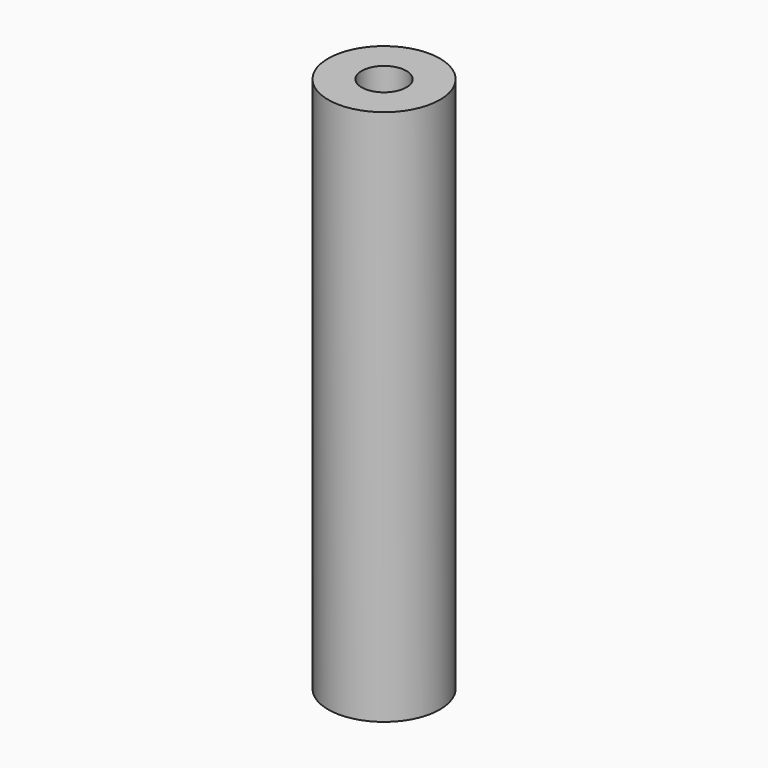
from build123d import *

# Parameters (mm, degrees)
F0_R     = 12.5
F0_R_2   = 5
F1_DEPTH = 60
F2_DEPTH = 25


with BuildPart() as f1:
    # F0 (on Top) → F1 (new body)
    with BuildSketch(Plane.XY):
        Circle(F0_R)
        Circle(F0_R_2, mode=Mode.SUBTRACT)
        Circle(F0_R_2)
    extrude(amount=-F1_DEPTH)

    # F0 (on Top) → F2 (cut)
    with BuildSketch(Plane.XY):
        Circle(F0_R_2)
    extrude(amount=-F2_DEPTH, mode=Mode.SUBTRACT)

    # F3: F1 across face


with BuildPart() as f1_1:
    add(f1.part)
    add(f1.part.mirror(Plane(origin=(0, 0, -60), x_dir=(1, 0, 0), z_dir=(0, 0, -1))))


solid = f1_1.part
